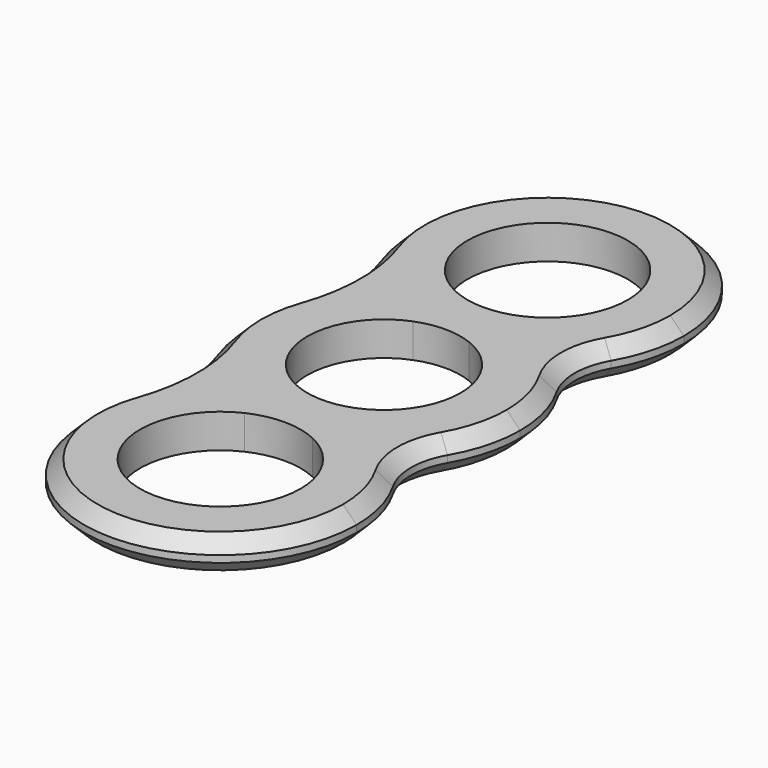
from build123d import *

# Parameters (mm, degrees)
F1_DEPTH = 5
F2_R     = 10
F3_R     = 25
F4_SIZE  = 2
F5_SIZE  = 2


with BuildPart() as f1:
    # F0 (on Top) → F1 (new body)
    with BuildSketch(Plane.XY):
        with BuildLine():
            ThreePointArc((-4.137504636, -10.4615273926), (-11.25, 0), (-4.137504636, 10.4615273926))
            ThreePointArc((-4.137504636, 10.4615273926), (-8.9686549041, 12.1525425178), (-13.2123684763, 15.0144370273))
            ThreePointArc((-13.2123684763, 15.0144370273), (-20, 0), (-13.2123684763, -15.0144370273))
            ThreePointArc((-13.2123684763, -15.0144370273), (-8.9686549041, -12.1525425178), (-4.137504636, -10.4615273926))
        make_face()
        with BuildLine():
            ThreePointArc((4.137504636, 10.4615273926), (9.303478574, 6.3251708611), (11.25, 0))
            ThreePointArc((11.25, 0), (9.303478574, -6.3251708611), (4.137504636, -10.4615273926))
            ThreePointArc((4.137504636, -10.4615273926), (8.9686549041, -12.1525425178), (13.2123684763, -15.0144370273))
            ThreePointArc((13.2123684763, -15.0144370273), (18.2242608839, -8.2387083476), (20, 0))
            ThreePointArc((20, 0), (18.2242608839, 8.2387083476), (13.2123684763, 15.0144370273))
            ThreePointArc((13.2123684763, 15.0144370273), (8.9686549041, 12.1525425178), (4.137504636, 10.4615273926))
        make_face()
        with BuildLine():
            ThreePointArc((-4.137504636, 10.4615273926), (0, 11.25), (4.137504636, 10.4615273926))
            ThreePointArc((4.137504636, 10.4615273926), (8.9686549041, 12.1525425178), (13.2123684763, 15.0144370273))
            ThreePointArc((13.2123684763, 15.0144370273), (9.3655087913, 17.6716508872), (5.0068447736, 19.3631481277))
            ThreePointArc((5.0068447736, 19.3631481277), (0, 18.2464208238), (-5.0068447736, 19.3631481277))
            ThreePointArc((-5.0068447736, 19.3631481277), (-9.3655087913, 17.6716508872), (-13.2123684763, 15.0144370273))
            ThreePointArc((-13.2123684763, 15.0144370273), (-8.9686549041, 12.1525425178), (-4.137504636, 10.4615273926))
        make_face()
        with BuildLine():
            ThreePointArc((13.2123684763, -15.0144370273), (8.9686549041, -12.1525425178), (4.137504636, -10.4615273926))
            ThreePointArc((4.137504636, -10.4615273926), (0, -11.25), (-4.137504636, -10.4615273926))
            ThreePointArc((-4.137504636, -10.4615273926), (-8.9686549041, -12.1525425178), (-13.2123684763, -15.0144370273))
            ThreePointArc((-13.2123684763, -15.0144370273), (-9.3655087913, -17.6716508872), (-5.0068447736, -19.3631481277))
            ThreePointArc((-5.0068447736, -19.3631481277), (0, -18.2464208238), (5.0068447736, -19.3631481277))
            ThreePointArc((5.0068447736, -19.3631481277), (9.3655087913, -17.6716508872), (13.2123684763, -15.0144370273))
        make_face()
        with BuildLine():
            ThreePointArc((5.0068447736, 19.3631481277), (9.3655087913, 17.6716508872), (13.2123684763, 15.0144370273))
            ThreePointArc((13.2123684763, 15.0144370273), (18.2242608839, 21.790165707), (20, 30.0288740546))
            ThreePointArc((20, 30.0288740546), (-8.2387083476, 48.2531349384), (-13.2123684763, 15.0144370273))
            ThreePointArc((-13.2123684763, 15.0144370273), (-9.3655087913, 17.6716508872), (-5.0068447736, 19.3631481277))
            ThreePointArc((-5.0068447736, 19.3631481277), (-6.3179620827, 39.9742025688), (11.7824532307, 30.0288740546))
            ThreePointArc((11.7824532307, 30.0288740546), (9.9453285142, 23.7109119719), (5.0068447736, 19.3631481277))
        make_face()
        with BuildLine():
            ThreePointArc((20, -30.0288740546), (18.2242608839, -21.790165707), (13.2123684763, -15.0144370273))
            ThreePointArc((13.2123684763, -15.0144370273), (9.3655087913, -17.6716508872), (5.0068447736, -19.3631481277))
            ThreePointArc((5.0068447736, -19.3631481277), (9.9453285142, -23.7109119719), (11.7824532307, -30.0288740546))
            ThreePointArc((11.7824532307, -30.0288740546), (-6.3179620827, -39.9742025688), (-5.0068447736, -19.3631481277))
            ThreePointArc((-5.0068447736, -19.3631481277), (-9.3655087913, -17.6716508872), (-13.2123684763, -15.0144370273))
            ThreePointArc((-13.2123684763, -15.0144370273), (-8.2387083476, -48.2531349384), (20, -30.0288740546))
        make_face()
    extrude(amount=F1_DEPTH)

    # F2
    f2_edges = [f1.edges().sort_by_distance(p)[0] for p in [
        (13.212368, -15.014437, 2.5),
        (13.212368, 15.014437, 2.5),
    ]]
    fillet(f2_edges, radius=F2_R)

    # F3
    f3_edges = [f1.edges().sort_by_distance(p)[0] for p in [
        (-13.212368, -15.014437, 2.5),
        (-13.212368, 15.014437, 2.5),
    ]]
    fillet(f3_edges, radius=F3_R)

    # F4
    f4_edges = [f1.edges().sort_by_distance(p)[0] for p in [
        (1.83718, -49.944315, 5),
        (-17.4213, -15.014437, 5),
        (-20, 0, 5),
        (-17.4213, 15.014437, 5),
        (1.83718, 49.944315, 5),
        (15.972422, -15.014437, 5),
        (20, 0, 5),
        (15.972422, 15.014437, 5),
    ]]
    chamfer(f4_edges, length=F4_SIZE)

    # F5
    f5_edges = [f1.edges().sort_by_distance(p)[0] for p in [
        (1.83718, -49.944315, 0),
    ]]
    chamfer(f5_edges, length=F5_SIZE)


solid = f1.part
